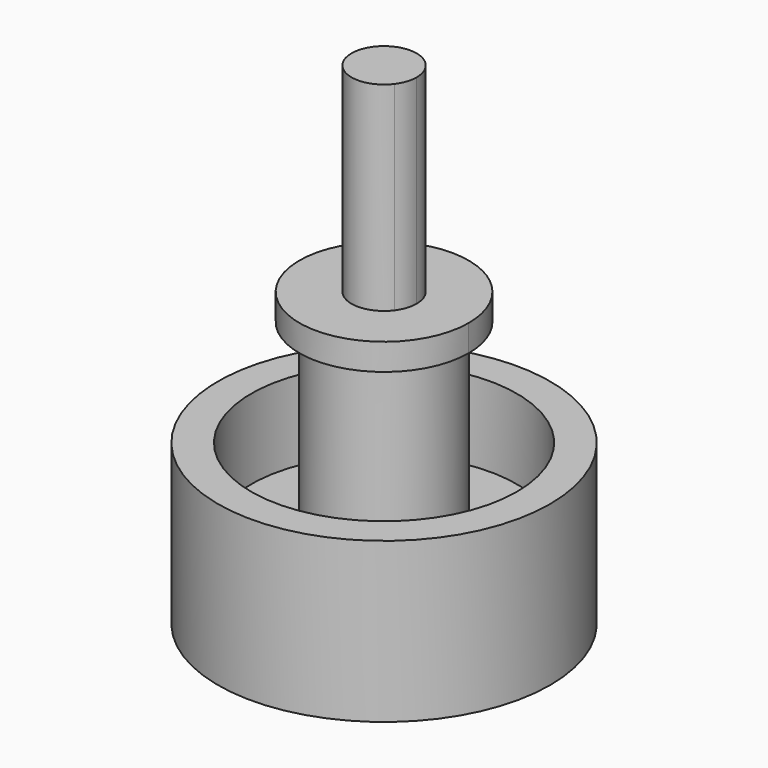
from build123d import *

# Parameters (mm, degrees)
F0_R     = 12.7
F0_R_2   = 6.35
F1_DEPTH = 7.62
F0_R_3   = 15.875
F2_DEPTH = 15.24
F3_DEPTH = 27.94
F5_DEPTH = 19.05
F6_DEPTH = 2.54


with BuildPart() as f1:
    # F0 (on Top) → F1 (new body)
    with BuildSketch(Plane.XY):
        Circle(F0_R)
        Circle(F0_R_2, mode=Mode.SUBTRACT)
    extrude(amount=F1_DEPTH)

    # F0 (on Top) → F2 (join)
    with BuildSketch(Plane.XY):
        Circle(F0_R_3)
        Circle(F0_R, mode=Mode.SUBTRACT)
    extrude(amount=F2_DEPTH)

    # F0 (on Top) → F3 (join)
    with BuildSketch(Plane.XY):
        Circle(F0_R_2)
    extrude(amount=F3_DEPTH)

    # F4 (on face) → F5 (join)
    with BuildSketch(Plane.XY.offset(27.94)):
        with BuildLine():
            Line((0, 0), (2.4892, -1.8669))
            ThreePointArc((2.4892, -1.8669), (2.9518280819, -0.983942694), (3.1115, 0))
            ThreePointArc((3.1115, 0), (2.8697186557, 1.2025585587), (2.1819502092, 2.2182257628))
            Line((2.1819502092, 2.2182257628), (0, 0))
        make_face()
        with BuildLine():
            ThreePointArc((2.1819502092, 2.2182257628), (1.6749519392, 2.6222067522), (1.095248, 2.912364))
            Line((1.095248, 2.912364), (0, 0))
            Line((0, 0), (2.1819502092, 2.2182257628))
        make_face()
        with BuildLine():
            ThreePointArc((-2.7755672417, 1.4062925502), (-3.0996598031, -0.2711850936), (-2.4892, -1.8669))
            Line((-2.4892, -1.8669), (0, 0))
            Line((0, 0), (-2.7755672417, 1.4062925502))
        make_face()
        with BuildLine():
            Line((0, 0), (-2.4892, 1.8669))
            ThreePointArc((-2.4892, 1.8669), (-2.6424388986, 1.642847807), (-2.7755672417, 1.4062925502))
            Line((-2.7755672417, 1.4062925502), (0, 0))
        make_face()
        with BuildLine():
            Line((0, 0), (1.095248, 2.912364))
            ThreePointArc((1.095248, 2.912364), (-0.87122, 2.98704), (-2.4892, 1.8669))
            Line((-2.4892, 1.8669), (0, 0))
        make_face()
        with BuildLine():
            ThreePointArc((-2.4892, -1.8669), (0, -3.1115), (2.4892, -1.8669))
            Line((2.4892, -1.8669), (0, 0))
            Line((0, 0), (-2.4892, -1.8669))
        make_face()
    extrude(amount=F5_DEPTH)

    # F4 (on face) → F6 (join)
    with BuildSketch(Plane.XY.offset(27.94)):
        with BuildLine():
            ThreePointArc((-7.2164748284, 3.6563606306), (-8.0591154881, -0.7050812433), (-6.47192, -4.85394))
            Line((-6.47192, -4.85394), (-5.08, -3.81))
            ThreePointArc((-5.08, -3.81), (-6.3258363329, -0.5534389664), (-5.6644229422, 2.8699847964))
            Line((-5.6644229422, 2.8699847964), (-7.2164748284, 3.6563606306))
        make_face()
        with BuildLine():
            Line((-5.08, 3.81), (-6.47192, 4.85394))
            ThreePointArc((-6.47192, 4.85394), (-6.8703411364, 4.2714042983), (-7.2164748284, 3.6563606306))
            Line((-7.2164748284, 3.6563606306), (-5.6644229422, 2.8699847964))
            ThreePointArc((-5.6644229422, 2.8699847964), (-5.3927324462, 3.3527506266), (-5.08, 3.81))
        make_face()
        with BuildLine():
            Line((2.2352, 5.9436), (2.8476448, 7.5721464))
            ThreePointArc((2.8476448, 7.5721464), (-2.265172, 7.766304), (-6.47192, 4.85394))
            Line((-6.47192, 4.85394), (-5.08, 3.81))
            ThreePointArc((-5.08, 3.81), (-1.778, 6.096), (2.2352, 5.9436))
        make_face()
        with BuildLine():
            ThreePointArc((5.6730705438, 5.7673869833), (4.3548750419, 6.8177375558), (2.8476448, 7.5721464))
            Line((2.8476448, 7.5721464), (2.2352, 5.9436))
            ThreePointArc((2.2352, 5.9436), (3.4182692637, 5.3514423515), (4.4529596105, 4.5269913526))
            Line((4.4529596105, 4.5269913526), (5.6730705438, 5.7673869833))
        make_face()
        with BuildLine():
            Line((5.08, -3.81), (6.47192, -4.85394))
            ThreePointArc((6.47192, -4.85394), (7.6747530129, -2.5582510043), (8.0899, 0))
            ThreePointArc((8.0899, 0), (7.4612685048, 3.1266522526), (5.6730705438, 5.7673869833))
            Line((5.6730705438, 5.7673869833), (4.4529596105, 4.5269913526))
            ThreePointArc((4.4529596105, 4.5269913526), (5.8565686851, 2.4542011402), (6.35, 0))
            ThreePointArc((6.35, 0), (6.0241389426, -2.0080463142), (5.08, -3.81))
        make_face()
        with BuildLine():
            Line((5.08, -3.81), (6.47192, -4.85394))
            ThreePointArc((6.47192, -4.85394), (7.6747530129, -2.5582510043), (8.0899, 0))
            ThreePointArc((8.0899, 0), (7.4612685048, 3.1266522526), (5.6730705438, 5.7673869833))
            Line((5.6730705438, 5.7673869833), (4.4529596105, 4.5269913526))
            ThreePointArc((4.4529596105, 4.5269913526), (5.8565686851, 2.4542011402), (6.35, 0))
            ThreePointArc((6.35, 0), (6.0241389426, -2.0080463142), (5.08, -3.81))
        make_face()
        with BuildLine():
            ThreePointArc((-6.47192, -4.85394), (0, -8.0899), (6.47192, -4.85394))
            Line((6.47192, -4.85394), (5.08, -3.81))
            ThreePointArc((5.08, -3.81), (0, -6.35), (-5.08, -3.81))
            Line((-5.08, -3.81), (-6.47192, -4.85394))
        make_face()
    extrude(amount=-F6_DEPTH)


solid = f1.part
